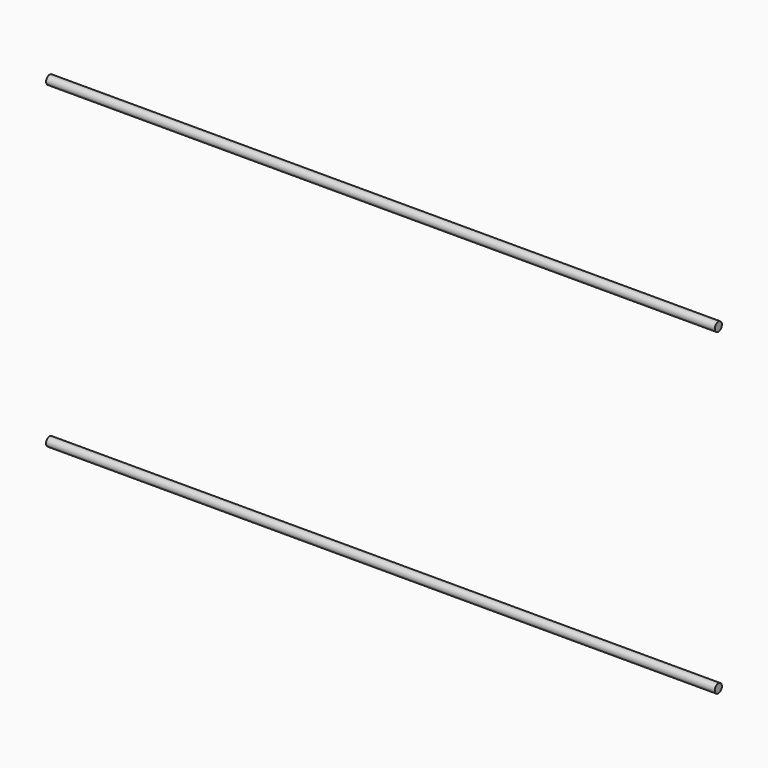
from build123d import *

# Parameters (mm, degrees)
F0_R     = 14
F1_DEPTH = 2100


with BuildPart() as f1:
    # F0 (on Right) → F1 (new body)
    with BuildSketch(Plane.YZ):
        Circle(F0_R)
    extrude(amount=F1_DEPTH)


with BuildPart() as f2_1:
    # F2: copy of F1
    add(f1.part.moved(Location((0, 0, 1000))))


solid = Compound([f1.part, f2_1.part])
